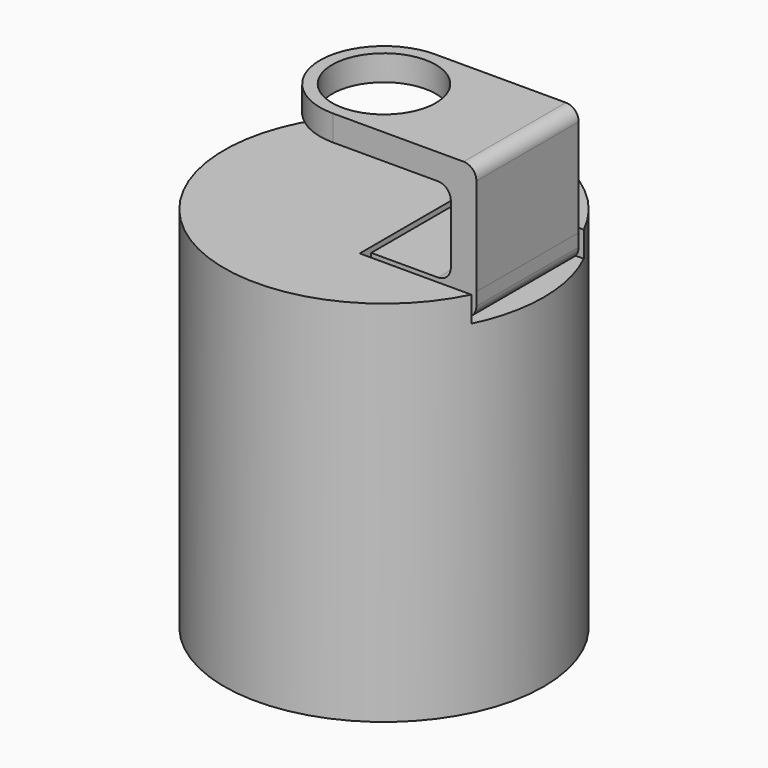
from build123d import *

# Parameters (mm, degrees)
F0_R      = 15.875
F1_DEPTH  = 36.576
F2_R      = 13.081
F3_DEPTH  = 25.4
F4_W      = 25.4
F4_H      = 13.97
F5_DEPTH  = 2.54
F6_W      = 10.445715
F6_H      = 12.7
F7_DEPTH  = 2.54
F8_W      = 2.54
F8_H      = 12.7
F9_DEPTH  = 10.95375
F10_R     = 5.1435
F11_DEPTH = 2.54
F12_R     = 1.27


with BuildPart() as f1:
    # F0 (on Top) → F1 (new body)
    with BuildSketch(Plane.XY):
        Circle(F0_R)
    extrude(amount=F1_DEPTH)

    # F2 (on face) → F3 (cut)
    with BuildSketch(Plane(origin=(0, 0, 0), x_dir=(1, 0, 0), z_dir=(0, 0, -1))):
        Circle(F2_R)
    extrude(amount=-F3_DEPTH, mode=Mode.SUBTRACT)

    # F4 (on face) → F5 (cut)
    with BuildSketch(Plane.XY.offset(36.576)):
        with Locations((15.875, 0)):
            Rectangle(F4_W, F4_H)
    extrude(amount=-F5_DEPTH, mode=Mode.SUBTRACT)


with BuildPart() as f7:
    # F6 (on face) → F7 (new body)
    with BuildSketch(Plane.XY.offset(34.036)):
        with Locations((9.032857, 0)):
            Rectangle(F6_W, F6_H)
    extrude(amount=F7_DEPTH)

    # F8 (on face) → F9 (join)
    with BuildSketch(Plane.XY.offset(36.576)):
        with Locations((12.985715, 0)):
            Rectangle(F8_W, F8_H)
    extrude(amount=F9_DEPTH)

    # F10 (on face) → F11 (join)
    with BuildSketch(Plane.XY.offset(47.52975)):
        with BuildLine():
            Line((14.255715, -6.35), (14.255715, 6.35))
            Line((14.255715, 6.35), (0, 6.35))
            ThreePointArc((0, 6.35), (-6.35, 0), (0, -6.35))
            Line((0, -6.35), (14.255715, -6.35))
        make_face()
        Circle(F10_R, mode=Mode.SUBTRACT)
    extrude(amount=-F11_DEPTH)

    # F12
    f12_edges = [f7.edges().sort_by_distance(p)[0] for p in [
        (14.255715, 0, 47.52975),
        (11.715715, 0, 44.98975),
        (14.255715, 0, 34.036),
        (11.715715, 0, 36.576),
    ]]
    fillet(f12_edges, radius=F12_R)


solid = Compound([f1.part, f7.part])
